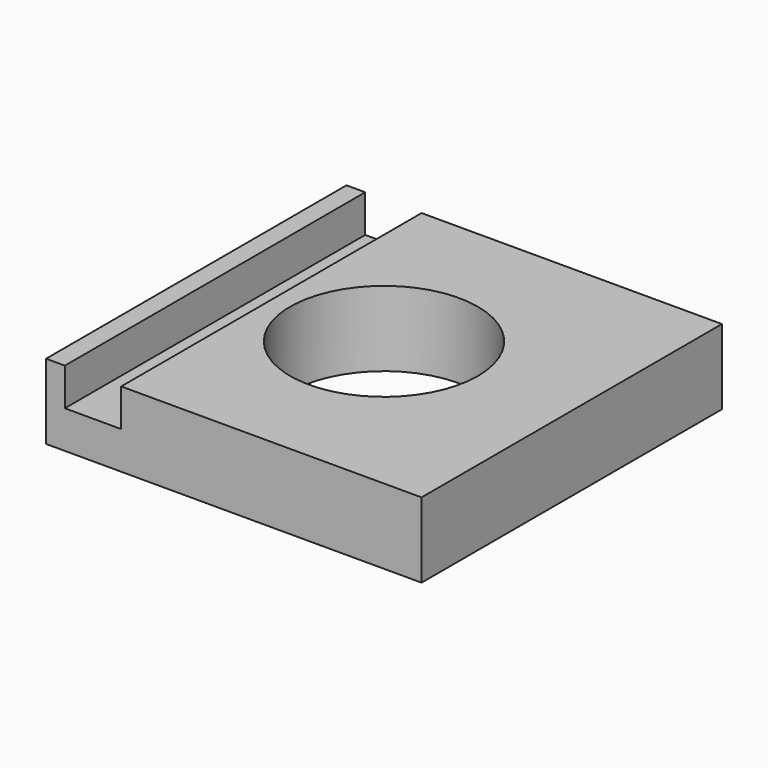
from build123d import *

# Parameters (mm, degrees)
F1_W     = 100
F1_H     = 100
F1_R     = 25
F2_DEPTH = 20
F3_W     = 15
F3_H     = 100
F4_DEPTH = 10


with BuildPart() as f2:
    # F1 (on face) → F2 (new body)
    with BuildSketch(Plane.XY):
        Rectangle(F1_W, F1_H)
        Circle(F1_R, mode=Mode.SUBTRACT)
    extrude(amount=F2_DEPTH)

    # F3 (on face) → F4 (cut)
    with BuildSketch(Plane.XY.offset(20)):
        with Locations((-37.5, 0)):
            Rectangle(F3_W, F3_H)
    extrude(amount=-F4_DEPTH, mode=Mode.SUBTRACT)


solid = f2.part
